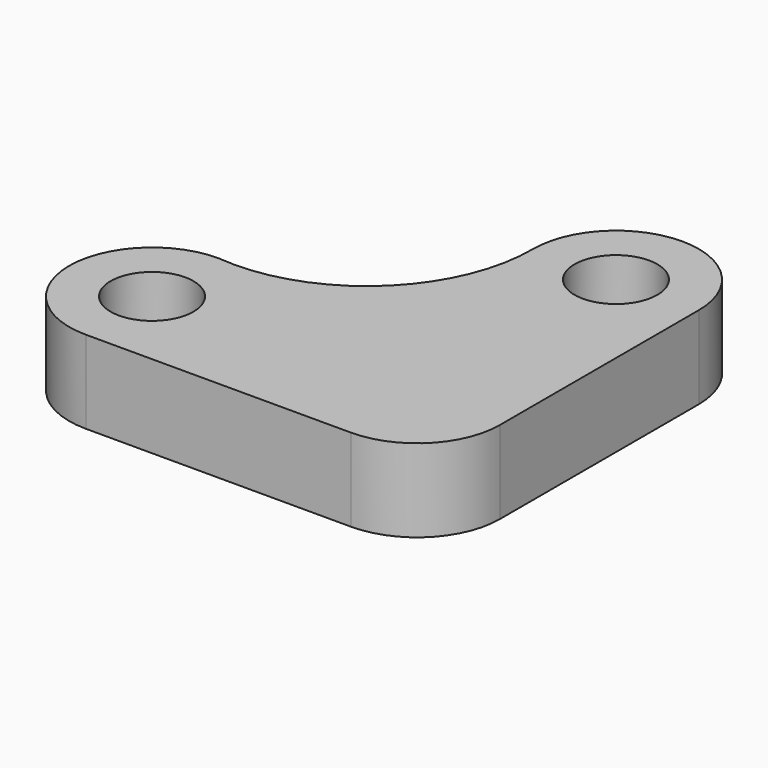
from build123d import *

# Parameters (mm, degrees)
F0_R     = 2.5
F1_DEPTH = 5


with BuildPart() as f1:
    # F0 (on Top) → F1 (new body)
    with BuildSketch(Plane.XY):
        with BuildLine():
            Line((-16, -5), (0, -5))
            ThreePointArc((0, -5), (3.535534, -3.535534), (5, 0))
            Line((5, 0), (5, 15))
            ThreePointArc((5, 15), (0, 20), (-5, 15))
            ThreePointArc((-5, 15), (-8.273146, 7.550461), (-16, 5))
            ThreePointArc((-16, 5), (-21, 0), (-16, -5))
        make_face()
        with Locations((-16, 0)):
            Circle(F0_R, mode=Mode.SUBTRACT)
        with Locations((0, 15)):
            Circle(F0_R, mode=Mode.SUBTRACT)
    extrude(amount=F1_DEPTH)


solid = f1.part
